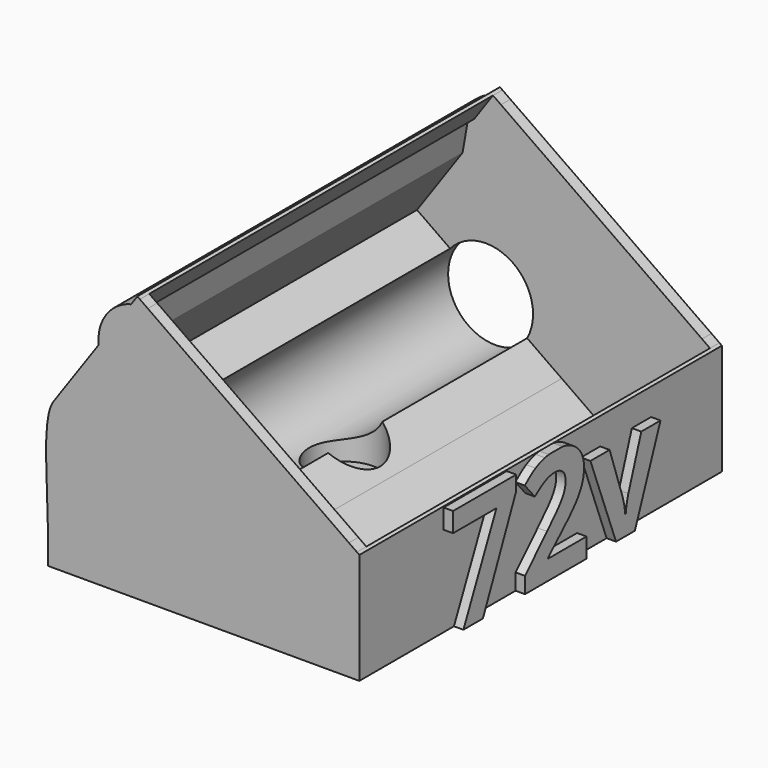
from build123d import *

# Parameters (mm, degrees)
F1_DEPTH = 24
F2_DEPTH = 22.75
F3_R     = 5
F4_DEPTH = 42.5
F5_R     = 1.65
F6_DEPTH = 25
F7_START = 2
F5_R_2   = 3.75
F7_DEPTH = 23
F9_DEPTH = 1


with BuildPart() as f1:
    # F0 (on Front) → F1 (new body, symmetric)
    with BuildSketch(Plane.XZ):
        with BuildLine():
            ThreePointArc((-24.1761827572, 27.2544863717), (-26.8028128996, 25.4428226271), (-27.6068595339, 22.3549721713))
            Line((-27.6068595339, 22.3549721713), (-25.9186847038, 24.76593569))
            Line((-25.9186847038, 24.76593569), (-24.1761827572, 27.2544863717))
        make_face()
        with BuildLine():
            Line((-33, 4), (-15.9628038305, 4))
            Line((-15.9628038305, 4), (-31.2942431747, 14.7351894004))
            Line((-31.2942431747, 14.7351894004), (-32.4000984345, 15.5095175895))
            add(Edge.make_bspline(
                [(-32.4000984345, 15.5095175895), (-33.6793400347, 13.5531779379), (-33, 7.9824011773), (-33, 4)],
                knots=[0, 0, 0, 0, 11.5251410851, 11.5251410851, 11.5251410851, 11.5251410851], degree=3))
        make_face()
        Polygon((-33, 0), (-10.2502118035, 0), (-15.9628038305, 4), (-33, 4), align=None)
        Polygon((-9.8717945621, 0), (0, 0), (0, 4), (-7.0709644092, 4), align=None)
        Polygon((-1.1058552598, 12.5190587418), (-1.7330256341, 11.6233666218), (-2.2487850863, 9.0910355887), (-0.2621286542, 11.9282750123), align=None)
        Polygon((-7.0709644092, 4), (0, 4), (0, 7.8723652764), (0, 11.7447305527), (-0.2621286542, 11.9282750123), (-2.2487850863, 9.0910355887), (-2.4090210327, 8.3042919667), (-5.1744842522, 6.7084543561), align=None)
        Polygon((-15.9628038305, 4), (-7.0709644092, 4), (-5.1744842522, 6.7084543561), (-1.7330256341, 11.6233666218), (-1.1058552598, 12.5190587418), (-22.4038084113, 27.4320460869), (-23.0309787856, 26.5363539669), (-26.4724374037, 21.6214417012), (-31.2942431747, 14.7351894004), align=None)
        Polygon((-1.7330256341, 11.6233666218), (-5.1744842522, 6.7084543561), (-2.4090210327, 8.3042919667), (-2.2487850863, 9.0910355887), align=None)
        Polygon((-10.2502118035, 0), (-9.8717945621, 0), (-7.0709644092, 4), (-15.9628038305, 4), align=None)
        Polygon((-25.9186847038, 24.76593569), (-26.4724374037, 21.6214417012), (-23.0309787856, 26.5363539669), (-25.2341914491, 25.1855903927), align=None)
        Polygon((-32.4000984345, 15.5095175895), (-31.2942431747, 14.7351894004), (-26.4724374037, 21.6214417012), (-25.9186847038, 24.76593569), (-27.6068595339, 22.3549721713), align=None)
        Polygon((-24.1761827572, 27.2544863717), (-25.9186847038, 24.76593569), (-25.2341914491, 25.1855903927), (-23.2475350169, 28.0228298164), (-23.5096636711, 28.206374276), align=None)
        Polygon((-25.2341914491, 25.1855903927), (-23.0309787856, 26.5363539669), (-22.4038084113, 27.4320460869), (-23.2475350169, 28.0228298164), align=None)
        Polygon((-7.0709644092, 4), (0, 4), (0, 7.8723652764), (0, 11.7447305527), (-0.2621286542, 11.9282750123), (-2.2487850863, 9.0910355887), (-2.4090210327, 8.3042919667), (-5.1744842522, 6.7084543561), align=None)
    extrude(amount=F1_DEPTH, both=True)

    # F0 (on Front) → F2 (cut, symmetric)
    with BuildSketch(Plane.XZ):
        Polygon((-15.9628038305, 4), (-7.0709644092, 4), (-5.1744842522, 6.7084543561), (-1.7330256341, 11.6233666218), (-1.1058552598, 12.5190587418), (-22.4038084113, 27.4320460869), (-23.0309787856, 26.5363539669), (-26.4724374037, 21.6214417012), (-31.2942431747, 14.7351894004), align=None)
        Polygon((-25.9186847038, 24.76593569), (-26.4724374037, 21.6214417012), (-23.0309787856, 26.5363539669), (-25.2341914491, 25.1855903927), align=None)
        Polygon((-1.7330256341, 11.6233666218), (-5.1744842522, 6.7084543561), (-2.4090210327, 8.3042919667), (-2.2487850863, 9.0910355887), align=None)
        Polygon((-10.2502118035, 0), (-9.8717945621, 0), (-7.0709644092, 4), (-15.9628038305, 4), align=None)
        Polygon((-25.2341914491, 25.1855903927), (-23.0309787856, 26.5363539669), (-22.4038084113, 27.4320460869), (-23.2475350169, 28.0228298164), align=None)
        Polygon((-1.1058552598, 12.5190587418), (-1.7330256341, 11.6233666218), (-2.2487850863, 9.0910355887), (-0.2621286542, 11.9282750123), align=None)
    extrude(amount=F2_DEPTH, both=True, mode=Mode.SUBTRACT)

    # F3 (on face) → F4 (cut)
    with BuildSketch(Plane(origin=(0, 24, 0), x_dir=(-1, 0, 0), z_dir=(0, 1, 0))):
        with Locations((24, 9)):
            Circle(F3_R)
    extrude(amount=-F4_DEPTH, mode=Mode.SUBTRACT)

    # F5 (on Top) → F6 (cut)
    with BuildSketch(Plane.XY):
        with Locations((-20.7403171808, 0)):
            Circle(F5_R)
    extrude(amount=F6_DEPTH, mode=Mode.SUBTRACT)

    # F5 (on Top) → F7 (cut)
    with BuildSketch(Plane.XY.offset(F7_START)):
        with Locations((-20.7403171808, 0)):
            Circle(F5_R_2)
        with Locations((-20.7403171808, 0)):
            Circle(F5_R, mode=Mode.SUBTRACT)
    extrude(amount=F7_DEPTH, mode=Mode.SUBTRACT)

    # F8 (on face) → F9 (join)
    with BuildSketch(Plane.YZ):
        Polygon((-7.1003163303, 9.557886192), (-11.4740050518, 0), (-8.8921013951, 0), (-4.4878274378, 10.0829327401), (-4.4878274378, 11.6300359184), (-12.8426943545, 11.6300359184), (-12.8426943545, 9.557886192), align=None)
        with BuildLine():
            Line((-3.3179421679, 1.7127732056), (-3.3179421679, 0))
            Line((-3.3179421679, 0), (4.822828098, 0))
            Line((4.822828098, 0), (4.822828098, 2.0721497264))
            Line((4.822828098, 2.0721497264), (-0.2517722775, 2.0721497264))
            Line((-0.2517722775, 2.0721497264), (-0.2517722775, 2.1817468214))
            Line((-0.2517722775, 2.1817468214), (1.2469042774, 3.5912164385))
            add(Edge.make_bspline(
                [(3.3368953913, 5.7028720946), (2.7430320626, 4.9624545109), (1.2469042774, 3.5912164385)],
                knots=[0, 0, 0, 1, 1, 1], degree=2))
            add(Edge.make_bspline(
                [(4.2136721514, 7.1480244868), (3.9307587201, 6.4432896782), (3.3368953913, 5.7028720946)],
                knots=[0, 0, 0, 1, 1, 1], degree=2))
            add(Edge.make_bspline(
                [(4.4965855826, 8.6581705051), (4.4965855826, 7.8527592953), (4.2136721514, 7.1480244868)],
                knots=[0, 0, 0, 1, 1, 1], degree=2))
            add(Edge.make_bspline(
                [(4.0339838909, 10.2983037757), (4.4965855826, 9.5808251188), (4.4965855826, 8.6581705051)],
                knots=[0, 0, 0, 1, 1, 1], degree=2))
            add(Edge.make_bspline(
                [(2.7353857537, 11.4133904981), (3.5713821992, 11.0157824325), (4.0339838909, 10.2983037757)],
                knots=[0, 0, 0, 1, 1, 1], degree=2))
            add(Edge.make_bspline(
                [(1.6567308132, 11.7447305527), (2.2406834278, 11.6486757506), (2.7353857537, 11.4133904981)],
                knots=[0.4082482905, 0.4082482905, 0.4082482905, 1, 1, 1], degree=2))
            Line((1.6567308132, 11.7447305527), (-0.1827126259, 11.7447305527))
            add(Edge.make_bspline(
                [(-0.6888862727, 11.647877306), (-0.4462729111, 11.7070287542), (-0.1827126259, 11.7447305527)],
                knots=[0, 0, 0, 0.3626225608, 0.3626225608, 0.3626225608], degree=2))
            add(Edge.make_bspline(
                [(-1.9237651687, 11.1827268446), (-1.3579383062, 11.4847560483), (-0.6888862727, 11.647877306)],
                knots=[0, 0, 0, 1, 1, 1], degree=2))
            add(Edge.make_bspline(
                [(-3.3485274038, 10.1466519814), (-2.4895920313, 10.880697641), (-1.9237651687, 11.1827268446)],
                knots=[0, 0, 0, 1, 1, 1], degree=2))
            Line((-3.3485274038, 10.1466519814), (-2.0104233369, 8.5613172584))
            add(Edge.make_bspline(
                [(-0.6799655789, 9.4457403273), (-1.3171579917, 9.1347904299), (-2.0104233369, 8.5613172584)],
                knots=[0, 0, 0, 1, 1, 1], degree=2))
            add(Edge.make_bspline(
                [(0.6326507914, 9.7566902248), (-0.0427731661, 9.7566902248), (-0.6799655789, 9.4457403273)],
                knots=[0, 0, 0, 1, 1, 1], degree=2))
            add(Edge.make_bspline(
                [(1.6649025002, 9.4138807067), (1.2774895132, 9.7566902248), (0.6326507914, 9.7566902248)],
                knots=[0, 0, 0, 1, 1, 1], degree=2))
            add(Edge.make_bspline(
                [(2.0523154871, 8.3701595345), (2.0523154871, 9.0710711886), (1.6649025002, 9.4138807067)],
                knots=[0, 0, 0, 1, 1, 1], degree=2))
            add(Edge.make_bspline(
                [(1.8764503812, 7.4627975387), (2.0523154871, 7.9011859187), (2.0523154871, 8.3701595345)],
                knots=[0, 0, 0, 1, 1, 1], degree=2))
            add(Edge.make_bspline(
                [(1.3029772097, 6.510832074), (1.7005852753, 7.0244091587), (1.8764503812, 7.4627975387)],
                knots=[0, 0, 0, 1, 1, 1], degree=2))
            add(Edge.make_bspline(
                [(-0.394503378, 4.6667972313), (0.9053691441, 5.9972549893), (1.3029772097, 6.510832074)],
                knots=[0, 0, 0, 1, 1, 1], degree=2))
            Line((-0.394503378, 4.6667972313), (-3.3179421679, 1.7127732056))
        make_face()
        with BuildLine():
            Line((5.3402283372, 8.9054011613), (8.7326407429, 0))
            Line((8.7326407429, 0), (11.2253374618, 0))
            Line((11.2253374618, 0), (14.6202986372, 8.9054011613))
            Line((14.6202986372, 8.9054011613), (12.0791752949, 8.9054011613))
            Line((12.0791752949, 8.9054011613), (10.3664020893, 3.8308007857))
            add(Edge.make_bspline(
                [(10.0070255685, 2.0084304851), (10.0478058829, 2.7730613805), (10.3664020893, 3.8308007857)],
                knots=[0, 0, 0, 1, 1, 1], degree=2))
            Line((10.0070255685, 2.0084304851), (9.9611477148, 2.0084304851))
            add(Edge.make_bspline(
                [(9.601771194, 3.8308007857), (9.8872333949, 2.8673658576), (9.9611477148, 2.0084304851)],
                knots=[0, 0, 0, 1, 1, 1], degree=2))
            Line((9.601771194, 3.8308007857), (7.8813516794, 8.9054011613))
            Line((7.8813516794, 8.9054011613), (5.3402283372, 8.9054011613))
        make_face()
    extrude(amount=F9_DEPTH)


solid = f1.part
